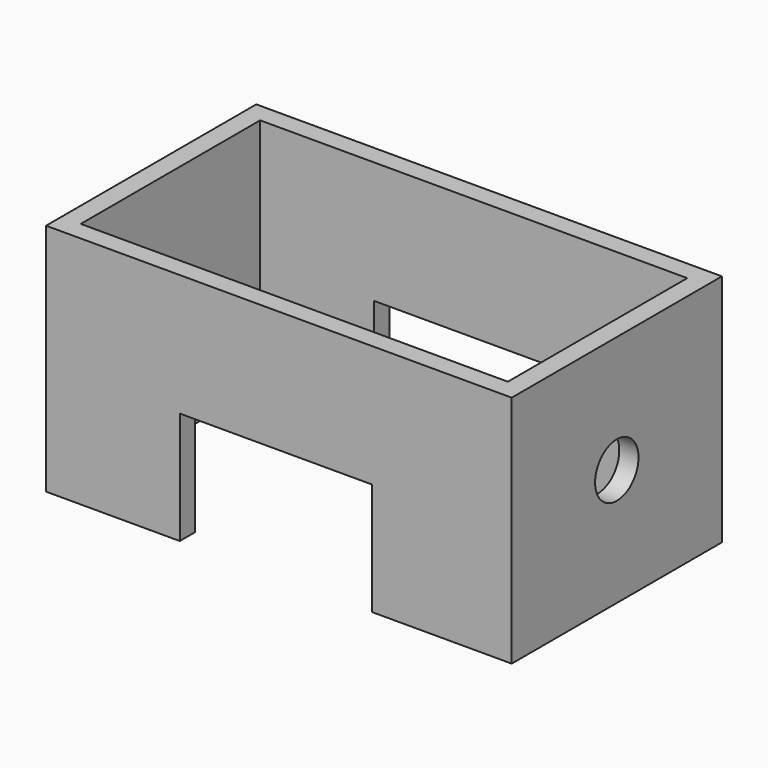
from build123d import *

# Parameters (mm, degrees)
F0_W     = 368.7085997245
F0_H     = 208.0708047671
F0_W_2   = 338.2285997245
F0_H_2   = 177.5908047671
F1_DEPTH = 185.42
F3_W     = 152.4
F3_H     = 14.9174671465
F4_DEPTH = 88.9
F5_DEPTH = 14.224
F6_DEPTH = 25.4
F7_DEPTH = 25.4
F8_R     = 21.4933910587
F9_DEPTH = 469.9


with BuildPart() as f1:
    # F0 (on Top) → F1 (new body)
    with BuildSketch(Plane.XY):
        with Locations((2.6404061785, 0.0097863376)):
            Rectangle(F0_W, F0_H)
        with Locations((2.6404061785, 0.0097863376)):
            Rectangle(F0_W_2, F0_H_2, mode=Mode.SUBTRACT)
    extrude(amount=F1_DEPTH)

    # F3 (on face) → F4 (cut)
    with BuildSketch(Plane.XY):
        with Locations((0.3421455622, -96.07069315)):
            Rectangle(F3_W, F3_H)
        Polygon((-76.1339217424, 104.031085968), (-76.1339217424, 89.1409292817), (76.6604244709, 88.854573667), (76.6604244709, 104.031085968), align=None)
    extrude(amount=F4_DEPTH, mode=Mode.SUBTRACT)

    # F5 (cut): a face of the model
    f5_faces = [f1.faces().sort_by_distance(p)[0] for p in [
        (0.3421455622, -103.5294267233, 44.45),
    ]]
    extrude(f5_faces, amount=-F5_DEPTH, mode=Mode.SUBTRACT)

    # F6 (cut): a face of the model
    f6_faces = [f1.faces().sort_by_distance(p)[0] for p in [
        (0.2632513642, 88.9977514744, 44.45),
    ]]
    extrude(f6_faces, amount=-F6_DEPTH, mode=Mode.SUBTRACT)

    # F7 (cut): a face of the model
    f7_faces = [f1.faces().sort_by_distance(p)[0] for p in [
        (0.2632513642, 104.031085968, 44.45),
    ]]
    extrude(f7_faces, amount=-F7_DEPTH, mode=Mode.SUBTRACT)

    # F8 (on face) → F9 (cut)
    with BuildSketch(Plane(origin=(-181.7138936837, 0, 0), x_dir=(0, -1, 0), z_dir=(-1, 0, 0))):
        with Locations((0, 92.71)):
            Circle(F8_R)
    extrude(amount=-F9_DEPTH, mode=Mode.SUBTRACT)


solid = f1.part
